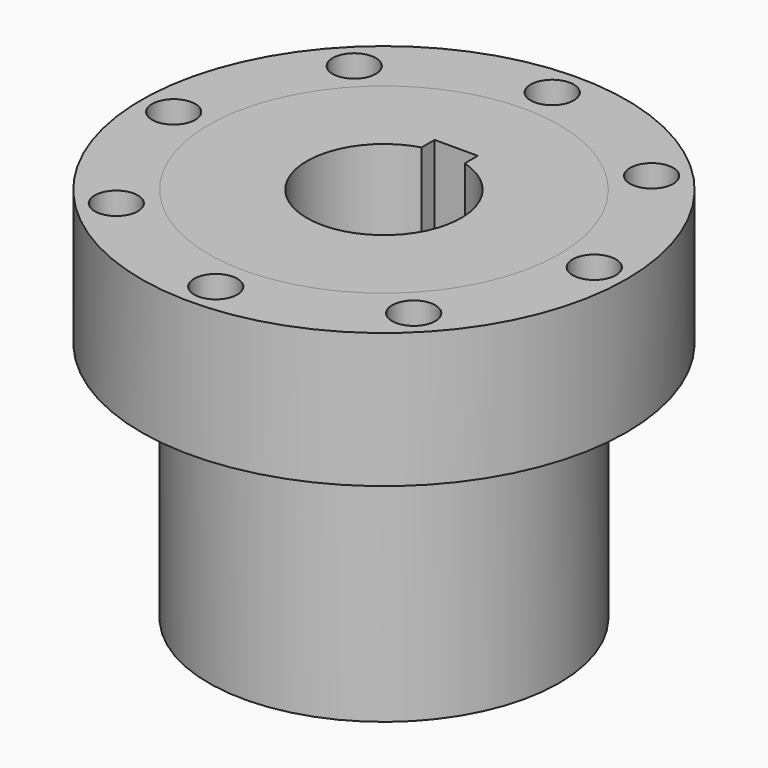
from build123d import *

# Parameters (mm, degrees)
F0_R     = 65
F1_DEPTH = 140
F2_R     = 90
F2_R_2   = 65
F3_DEPTH = 50
F4_R     = 8
F5_DEPTH = 100


with BuildPart() as f1:
    # F0 (on Top) → F1 (new body)
    with BuildSketch(Plane.XY):
        Circle(F0_R)
        with BuildLine():
            ThreePointArc((8, 27.458332), (0, -28.6), (-8, 27.458332))
            Line((-8, 27.458332), (-8, 33.5))
            Line((-8, 33.5), (8, 33.5))
            Line((8, 33.5), (8, 27.458332))
        make_face(mode=Mode.SUBTRACT)
    extrude(amount=F1_DEPTH)


with BuildPart() as f3:
    # F2 (on face) → F3 (new body)
    with BuildSketch(Plane.XY.offset(140)):
        Circle(F2_R)
        Circle(F2_R_2, mode=Mode.SUBTRACT)
    extrude(amount=-F3_DEPTH)

    # F4 (on face) → F5 (cut)
    with BuildSketch(Plane.XY.offset(140)):
        with Locations((-55.154329, 55.154329)):
            Circle(F4_R)
        with Locations((0, 78)):
            Circle(F4_R)
        with Locations((55.154329, 55.154329)):
            Circle(F4_R)
        with Locations((78, 0)):
            Circle(F4_R)
        with Locations((55.154329, -55.154329)):
            Circle(F4_R)
        with Locations((0, -78)):
            Circle(F4_R)
        with Locations((-55.154329, -55.154329)):
            Circle(F4_R)
        with Locations((-78, 0)):
            Circle(F4_R)
    extrude(amount=-F5_DEPTH, mode=Mode.SUBTRACT)


solid = Compound([f1.part, f3.part])
